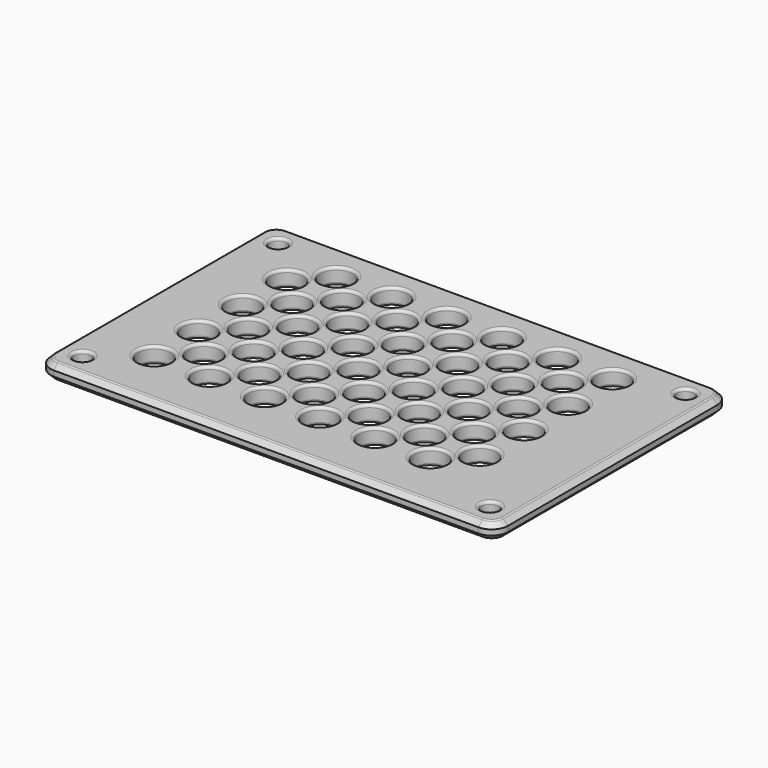
from build123d import *

# Parameters (mm, degrees)
F0_W     = 84.2
F0_H     = 54.2
F0_R     = 1.6
F0_R_2   = 3
F1_DEPTH = 3
F2_R     = 3
F3_SIZE  = 1
F4_R     = 0.5


with BuildPart() as f1:
    # F0 (on Top) → F1 (new body)
    with BuildSketch(Plane.XY):
        Rectangle(F0_W, F0_H)
        with Locations((-37.5, -22.5)):
            Circle(F0_R, mode=Mode.SUBTRACT)
        with Locations((-29.5, -15.98)):
            Circle(F0_R_2, mode=Mode.SUBTRACT)
        with Locations((-19.34, -15.98)):
            Circle(F0_R_2, mode=Mode.SUBTRACT)
        with Locations((-9.18, -15.98)):
            Circle(F0_R_2, mode=Mode.SUBTRACT)
        with Locations((-24.42, -10.9)):
            Circle(F0_R_2, mode=Mode.SUBTRACT)
        with Locations((-29.5, -5.82)):
            Circle(F0_R_2, mode=Mode.SUBTRACT)
        with Locations((-24.42, -0.74)):
            Circle(F0_R_2, mode=Mode.SUBTRACT)
        with Locations((-14.26, -10.9)):
            Circle(F0_R_2, mode=Mode.SUBTRACT)
        with Locations((-4.1, -10.9)):
            Circle(F0_R_2, mode=Mode.SUBTRACT)
        with Locations((-19.34, -5.82)):
            Circle(F0_R_2, mode=Mode.SUBTRACT)
        with Locations((-14.26, -0.74)):
            Circle(F0_R_2, mode=Mode.SUBTRACT)
        with Locations((-9.18, -5.82)):
            Circle(F0_R_2, mode=Mode.SUBTRACT)
        with Locations((-4.1, -0.74)):
            Circle(F0_R_2, mode=Mode.SUBTRACT)
        with Locations((0.98, -15.98)):
            Circle(F0_R_2, mode=Mode.SUBTRACT)
        with Locations((11.14, -15.98)):
            Circle(F0_R_2, mode=Mode.SUBTRACT)
        with Locations((37.5, -22.5)):
            Circle(F0_R, mode=Mode.SUBTRACT)
        with Locations((21.3, -15.98)):
            Circle(F0_R_2, mode=Mode.SUBTRACT)
        with Locations((6.06, -10.9)):
            Circle(F0_R_2, mode=Mode.SUBTRACT)
        with Locations((16.22, -10.9)):
            Circle(F0_R_2, mode=Mode.SUBTRACT)
        with Locations((0.98, -5.82)):
            Circle(F0_R_2, mode=Mode.SUBTRACT)
        with Locations((6.06, -0.74)):
            Circle(F0_R_2, mode=Mode.SUBTRACT)
        with Locations((11.14, -5.82)):
            Circle(F0_R_2, mode=Mode.SUBTRACT)
        with Locations((16.22, -0.74)):
            Circle(F0_R_2, mode=Mode.SUBTRACT)
        with Locations((26.38, -10.9)):
            Circle(F0_R_2, mode=Mode.SUBTRACT)
        with Locations((21.3, -5.82)):
            Circle(F0_R_2, mode=Mode.SUBTRACT)
        with Locations((26.38, -0.74)):
            Circle(F0_R_2, mode=Mode.SUBTRACT)
        with Locations((-29.5, 4.34)):
            Circle(F0_R_2, mode=Mode.SUBTRACT)
        with Locations((-24.42, 9.42)):
            Circle(F0_R_2, mode=Mode.SUBTRACT)
        with Locations((-19.34, 4.34)):
            Circle(F0_R_2, mode=Mode.SUBTRACT)
        with Locations((-9.18, 4.34)):
            Circle(F0_R_2, mode=Mode.SUBTRACT)
        with Locations((-14.26, 9.42)):
            Circle(F0_R_2, mode=Mode.SUBTRACT)
        with Locations((-4.1, 9.42)):
            Circle(F0_R_2, mode=Mode.SUBTRACT)
        with Locations((-29.5, 14.5)):
            Circle(F0_R_2, mode=Mode.SUBTRACT)
        with Locations((-24.42, 19.58)):
            Circle(F0_R_2, mode=Mode.SUBTRACT)
        with Locations((-37.5, 22.5)):
            Circle(F0_R, mode=Mode.SUBTRACT)
        with Locations((-19.34, 14.5)):
            Circle(F0_R_2, mode=Mode.SUBTRACT)
        with Locations((-14.26, 19.58)):
            Circle(F0_R_2, mode=Mode.SUBTRACT)
        with Locations((-9.18, 14.5)):
            Circle(F0_R_2, mode=Mode.SUBTRACT)
        with Locations((-4.1, 19.58)):
            Circle(F0_R_2, mode=Mode.SUBTRACT)
        with Locations((0.98, 4.34)):
            Circle(F0_R_2, mode=Mode.SUBTRACT)
        with Locations((11.14, 4.34)):
            Circle(F0_R_2, mode=Mode.SUBTRACT)
        with Locations((6.06, 9.42)):
            Circle(F0_R_2, mode=Mode.SUBTRACT)
        with Locations((16.22, 9.42)):
            Circle(F0_R_2, mode=Mode.SUBTRACT)
        with Locations((21.3, 4.34)):
            Circle(F0_R_2, mode=Mode.SUBTRACT)
        with Locations((26.38, 9.42)):
            Circle(F0_R_2, mode=Mode.SUBTRACT)
        with Locations((0.98, 14.5)):
            Circle(F0_R_2, mode=Mode.SUBTRACT)
        with Locations((6.06, 19.58)):
            Circle(F0_R_2, mode=Mode.SUBTRACT)
        with Locations((11.14, 14.5)):
            Circle(F0_R_2, mode=Mode.SUBTRACT)
        with Locations((16.22, 19.58)):
            Circle(F0_R_2, mode=Mode.SUBTRACT)
        with Locations((21.3, 14.5)):
            Circle(F0_R_2, mode=Mode.SUBTRACT)
        with Locations((26.38, 19.58)):
            Circle(F0_R_2, mode=Mode.SUBTRACT)
        with Locations((37.5, 22.5)):
            Circle(F0_R, mode=Mode.SUBTRACT)
    extrude(amount=F1_DEPTH)

    # F2
    f2_edges = [f1.edges().sort_by_distance(p)[0] for p in [
        (-42.1, 27.1, 1.5),
        (-42.1, -27.1, 1.5),
        (42.1, -27.1, 1.5),
        (42.1, 27.1, 1.5),
    ]]
    fillet(f2_edges, radius=F2_R)

    # F3
    f3_edges = [f1.edges().sort_by_distance(p)[0] for p in [
        (0, 27.1, 3),
        (0, 27.1, 0),
    ]]
    chamfer(f3_edges, length=F3_SIZE)

    # F4
    f4_edges = [f1.edges().sort_by_distance(p)[0] for p in [
        (0, 26.1, 3),
        (40.514214, 25.514214, 3),
        (-40.514214, 25.514214, 3),
        (41.1, 0, 3),
        (-41.1, 0, 3),
        (40.514214, -25.514214, 3),
        (-40.514214, -25.514214, 3),
        (0, -26.1, 3),
        (-39.1, -22.5, 3),
        (-32.5, -15.98, 3),
        (-22.34, -15.98, 3),
        (-12.18, -15.98, 3),
        (-27.42, -10.9, 3),
        (-32.5, -5.82, 3),
        (-27.42, -0.74, 3),
        (-17.26, -10.9, 3),
        (-7.1, -10.9, 3),
        (-22.34, -5.82, 3),
        (-17.26, -0.74, 3),
        (-12.18, -5.82, 3),
        (-7.1, -0.74, 3),
        (-2.02, -15.98, 3),
        (8.14, -15.98, 3),
        (35.9, -22.5, 3),
        (18.3, -15.98, 3),
        (3.06, -10.9, 3),
        (13.22, -10.9, 3),
        (-2.02, -5.82, 3),
        (3.06, -0.74, 3),
        (8.14, -5.82, 3),
        (13.22, -0.74, 3),
        (23.38, -10.9, 3),
        (18.3, -5.82, 3),
        (23.38, -0.74, 3),
        (-32.5, 4.34, 3),
        (-27.42, 9.42, 3),
        (-22.34, 4.34, 3),
        (-12.18, 4.34, 3),
        (-17.26, 9.42, 3),
        (-7.1, 9.42, 3),
        (-32.5, 14.5, 3),
        (-27.42, 19.58, 3),
        (-39.1, 22.5, 3),
        (-22.34, 14.5, 3),
        (-17.26, 19.58, 3),
        (-12.18, 14.5, 3),
        (-7.1, 19.58, 3),
        (-2.02, 4.34, 3),
        (8.14, 4.34, 3),
        (3.06, 9.42, 3),
        (13.22, 9.42, 3),
        (18.3, 4.34, 3),
        (23.38, 9.42, 3),
        (-2.02, 14.5, 3),
        (3.06, 19.58, 3),
        (8.14, 14.5, 3),
        (13.22, 19.58, 3),
        (18.3, 14.5, 3),
        (23.38, 19.58, 3),
        (35.9, 22.5, 3),
        (0, 26.1, 0),
        (40.514214, 25.514214, 0),
        (-40.514214, 25.514214, 0),
        (41.1, 0, 0),
        (-41.1, 0, 0),
        (40.514214, -25.514214, 0),
        (-40.514214, -25.514214, 0),
        (0, -26.1, 0),
        (-39.1, -22.5, 0),
        (-32.5, -15.98, 0),
        (-22.34, -15.98, 0),
        (-12.18, -15.98, 0),
        (-27.42, -10.9, 0),
        (-32.5, -5.82, 0),
        (-27.42, -0.74, 0),
        (-17.26, -10.9, 0),
        (-7.1, -10.9, 0),
        (-22.34, -5.82, 0),
        (-17.26, -0.74, 0),
        (-12.18, -5.82, 0),
        (-7.1, -0.74, 0),
        (-2.02, -15.98, 0),
        (8.14, -15.98, 0),
        (35.9, -22.5, 0),
        (18.3, -15.98, 0),
        (3.06, -10.9, 0),
        (13.22, -10.9, 0),
        (-2.02, -5.82, 0),
        (3.06, -0.74, 0),
        (8.14, -5.82, 0),
        (13.22, -0.74, 0),
        (23.38, -10.9, 0),
        (18.3, -5.82, 0),
        (23.38, -0.74, 0),
        (-32.5, 4.34, 0),
        (-27.42, 9.42, 0),
        (-22.34, 4.34, 0),
        (-12.18, 4.34, 0),
        (-17.26, 9.42, 0),
        (-7.1, 9.42, 0),
        (-32.5, 14.5, 0),
        (-27.42, 19.58, 0),
        (-39.1, 22.5, 0),
        (-22.34, 14.5, 0),
        (-17.26, 19.58, 0),
        (-12.18, 14.5, 0),
        (-7.1, 19.58, 0),
        (-2.02, 4.34, 0),
        (8.14, 4.34, 0),
        (3.06, 9.42, 0),
        (13.22, 9.42, 0),
        (18.3, 4.34, 0),
        (23.38, 9.42, 0),
        (-2.02, 14.5, 0),
        (3.06, 19.58, 0),
        (8.14, 14.5, 0),
        (13.22, 19.58, 0),
        (18.3, 14.5, 0),
        (23.38, 19.58, 0),
        (35.9, 22.5, 0),
    ]]
    fillet(f4_edges, radius=F4_R)


solid = f1.part
